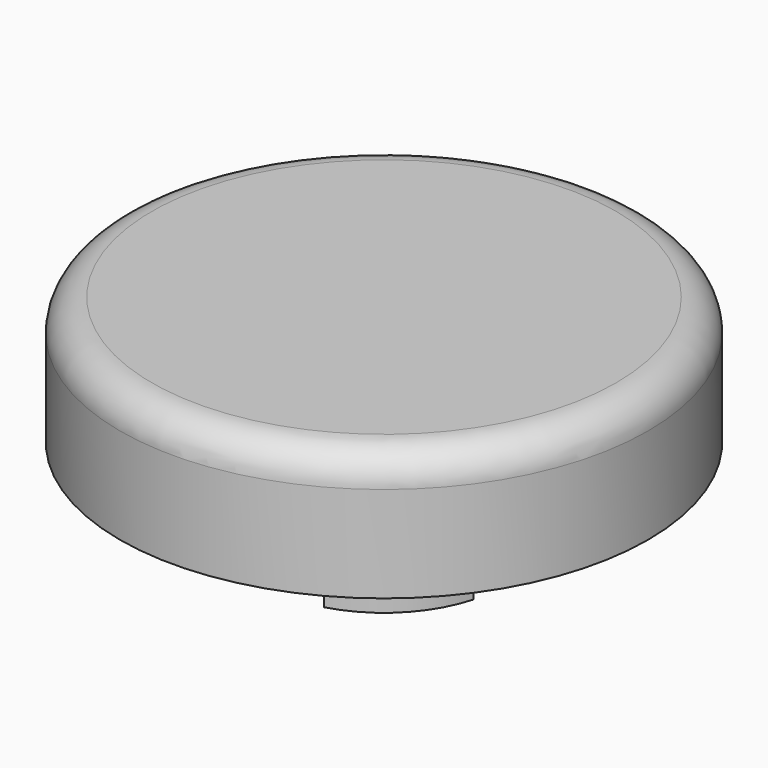
from build123d import *

# Parameters (mm, degrees)
F0_R     = 4.75
F1_DEPTH = 3.5
F2_R     = 10.5
F2_R_2   = 4.75
F3_DEPTH = 5.08
F4_R     = 1.27
F6_DEPTH = 25.4


with BuildPart() as f1:
    # F0 (on Top) → F1 (new body)
    with BuildSketch(Plane.XY):
        Circle(F0_R)
    extrude(amount=F1_DEPTH)

    # F2 (on face) → F3 (join)
    with BuildSketch(Plane.XY.offset(3.5)):
        Circle(F2_R)
        Circle(F2_R_2, mode=Mode.SUBTRACT)
        Circle(F2_R_2)
    extrude(amount=F3_DEPTH)

    # F4
    f4_edges = [f1.edges().sort_by_distance(p)[0] for p in [
        (-10.5, 0, 8.58),
    ]]
    fillet(f4_edges, radius=F4_R)

    # F5 (on face) → F6 (cut)
    with BuildSketch(Plane(origin=(0, 0, 3.5), x_dir=(1, 0, 0), z_dir=(0, 0, -1))):
        Polygon((1.27, 1.27), (1.27, 0), (1.27, -1.27), (10.422912261, -1.27), (10.422912261, 1.27), align=None)
        Polygon((1.27, -1.27), (1.27, 0), (1.27, 1.27), (0, 1.27), (-1.27, 1.27), (-1.27, 0), (-1.27, -1.27), (0, -1.27), align=None)
        Polygon((1.27, -10.422912261), (1.27, -1.27), (0, -1.27), (-1.27, -1.27), (-1.27, -10.422912261), align=None)
        Polygon((0, 1.27), (1.27, 1.27), (1.27, 10.422912261), (-1.27, 10.422912261), (-1.27, 1.27), align=None)
        Polygon((-10.422912261, -1.27), (-1.27, -1.27), (-1.27, 0), (-1.27, 1.27), (-10.422912261, 1.27), align=None)
    extrude(amount=F6_DEPTH, mode=Mode.SUBTRACT)


solid = f1.part
